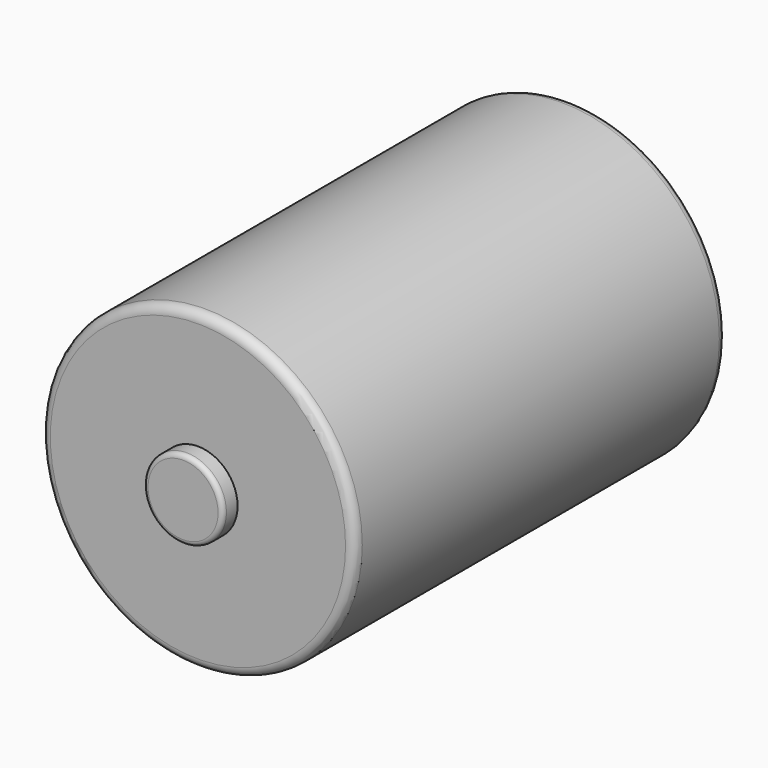
from build123d import *

# Parameters (mm, degrees)
F0_R     = 42.869903
F1_DEPTH = 127
F2_R     = 2.54
F3_R     = 10.834308
F4_DEPTH = 5.08
F5_R     = 1.27


with BuildPart() as f1:
    # F0 (on Front) → F1 (new body)
    with BuildSketch(Plane.XZ):
        Circle(F0_R)
    extrude(amount=F1_DEPTH)

    # F2
    f2_edges = [f1.edges().sort_by_distance(p)[0] for p in [
        (42.869903, -63.5, 0),
        (-42.869903, 0, 0),
        (-42.869903, -127, 0),
    ]]
    fillet(f2_edges, radius=F2_R)

    # F3 (on face) → F4 (join)
    with BuildSketch(Plane.XZ.offset(127)):
        Circle(F3_R)
    extrude(amount=F4_DEPTH)

    # F5
    f5_edges = [f1.edges().sort_by_distance(p)[0] for p in [
        (-10.834308, -132.08, 0),
    ]]
    fillet(f5_edges, radius=F5_R)


solid = f1.part
